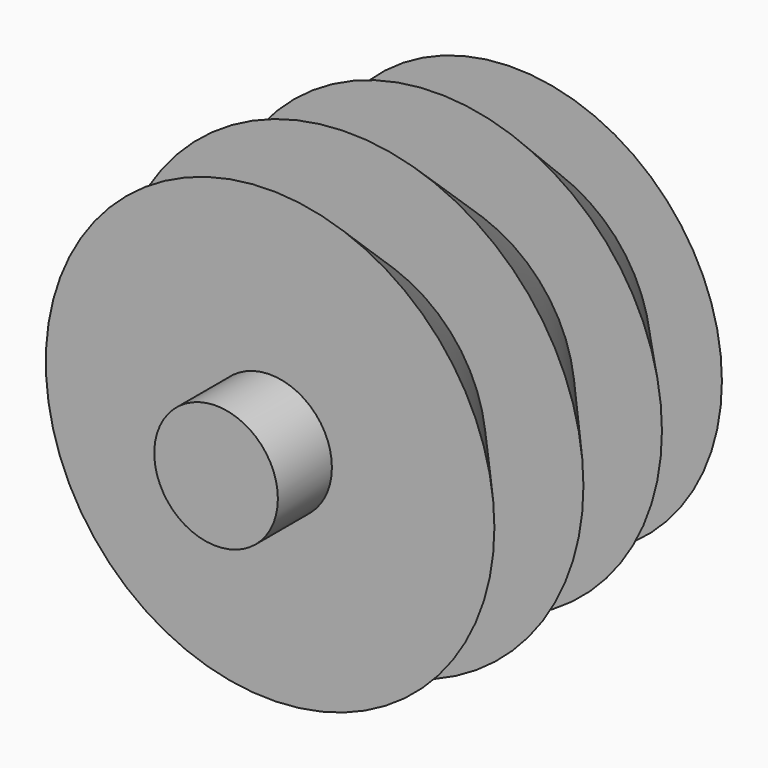
from build123d import *


with BuildPart() as f1:
    # F0 (on Top) → F1 (revolve)
    with BuildSketch(Plane.XY):
        Polygon((0, 76.635234), (0, -54.980509), (15.186432, -54.980509), (15.186432, -38.387928), (55.121128, -38.387928), (33.747628, -14.202126), (57.652198, -14.202126), (33.747628, 13.077206), (55.121128, 13.077206), (33.747628, 36.419317), (51.183905, 36.419317), align=None)
    revolve(axis=Axis((0, 10.827363, 0), (0, -1, 0)))


solid = f1.part
